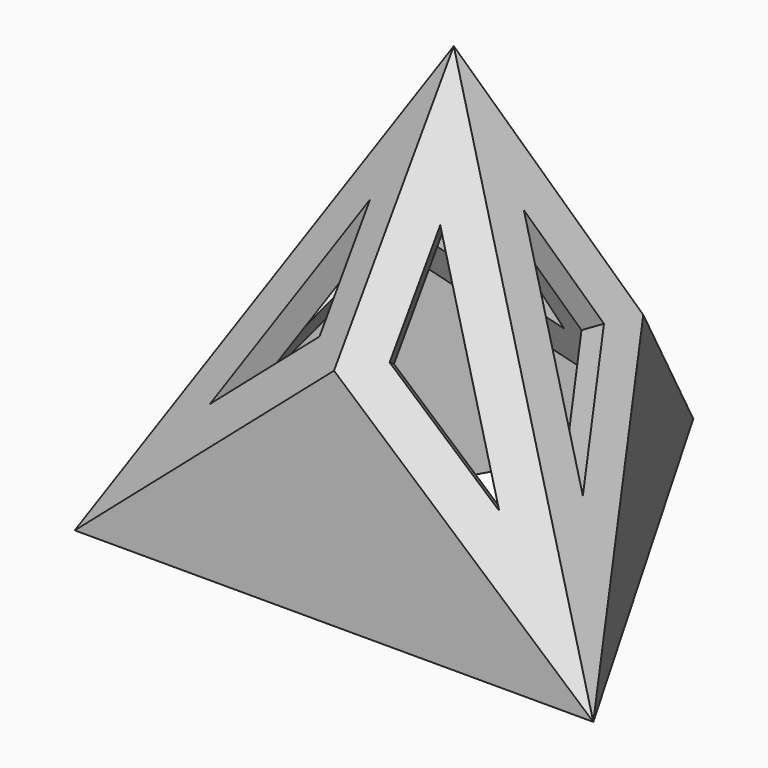
from build123d import *

# Parameters (mm, degrees)
F1_DEPTH  = 17.3482
F3_DEPTH  = 17.3215080757
F5_DEPTH  = 17.3215080757
F7_DEPTH  = 17.3215080757
F8_T      = -1
F10_DEPTH = 1
F12_DEPTH = 1
F14_DEPTH = 1
F16_DEPTH = 1
F18_DEPTH = 1
F20_DEPTH = 1


with BuildPart() as f1:
    # F0 (on Top) → F1 (new body)
    with BuildSketch(Plane.XY):
        Polygon((0, 11.5470053838), (-10, -5.7735026919), (10, -5.7735026919), align=None)
    extrude(amount=F1_DEPTH)

    # F2 (on face) → F3 (cut, through all)
    with BuildSketch(Plane(origin=(-5, 2.8867513459, 0), x_dir=(-0.5, -0.8660254038, 0), z_dir=(-0.8660254038, 0.5, 0))):
        Polygon((-10, 17.3482), (-10, 0), (0, 17.3482), align=None)
        Polygon((10, 17.3482), (0, 17.3482), (10, 0), align=None)
    extrude(amount=-F3_DEPTH, mode=Mode.SUBTRACT)

    # F4 (on face) → F5 (cut, through all)
    with BuildSketch(Plane.XZ.offset(5.7735026919)):
        Polygon((-10, 17.3482), (-10, 0), (0, 17.3482), align=None)
        Polygon((10, 17.3482), (0, 17.3482), (10, 0), align=None)
    extrude(amount=-F5_DEPTH, mode=Mode.SUBTRACT)

    # F6 (on face) → F7 (cut, through all)
    with BuildSketch(Plane(origin=(5, 2.8867513459, 0), x_dir=(-0.5, 0.8660254038, 0), z_dir=(0.8660254038, 0.5, 0))):
        Polygon((-10, 17.3482), (-10, 0), (0, 17.3482), align=None)
        Polygon((10, 17.3482), (0, 17.3482), (10, 0), align=None)
    extrude(amount=-F7_DEPTH, mode=Mode.SUBTRACT)

    # F8
    f8_openings = [f1.faces().sort_by_distance(p)[0] for p in [
        (0, 0, 0),
    ]]
    offset(amount=F8_T, openings=f8_openings)

    # F9 (on face) → F10 (cut, through all)
    with BuildSketch(Plane(origin=(7.5059859034, 0, 4.326665535), x_dir=(0, 1, 0), z_dir=(0.8663709312, 0, 0.4994010509))):
        Polygon((-2.4401965598, 1.1524346291), (1.2200982799, 5.3840480932), (0, 9.6156615572), align=None)
    extrude(amount=-F10_DEPTH, mode=Mode.SUBTRACT)

    # F11 (on face) → F12 (cut, through all)
    with BuildSketch(Plane(origin=(3.7529929517, -6.5003744728, 4.326665535), x_dir=(0.9013048055, 0.3606091099, -0.240022327), z_dir=(0.4331854656, -0.7502992355, 0.4994010509))):
        Polygon((-2.6639553332, 9.2392796887), (-2.6639553332, 4.835282377), (2.0254065744, 1.7833656477), align=None)
    extrude(amount=-F12_DEPTH, mode=Mode.SUBTRACT)

    # F13 (on face) → F14 (cut, through all)
    with BuildSketch(Plane(origin=(-3.7529929517, -6.5003744728, 4.326665535), x_dir=(0.9013048055, -0.3606091099, 0.240022327), z_dir=(-0.4331854656, -0.7502992355, 0.4994010509))):
        Polygon((2.6639553332, 9.2392796887), (-2.0254065744, 1.7833656477), (2.6639553332, 4.835282377), align=None)
    extrude(amount=-F14_DEPTH, mode=Mode.SUBTRACT)

    # F15 (on face) → F16 (cut, through all)
    with BuildSketch(Plane(origin=(-7.5059859034, 0, 4.326665535), x_dir=(0, -1, 0), z_dir=(-0.8663709312, 0, 0.4994010509))):
        Polygon((-1.2200982799, 5.3840480932), (2.4401965598, 1.1524346291), (0, 9.6156615572), align=None)
    extrude(amount=-F16_DEPTH, mode=Mode.SUBTRACT)

    # F17 (on face) → F18 (cut, through all)
    with BuildSketch(Plane(origin=(3.7529929517, 6.5003744728, 4.326665535), x_dir=(-0.9013048055, 0.3606091099, 0.240022327), z_dir=(0.4331854656, 0.7502992355, 0.4994010509))):
        Polygon((2.6639553332, 9.2392796887), (0.3192743794, 5.5113226682), (2.6639553332, 0.4312850652), align=None)
    extrude(amount=-F18_DEPTH, mode=Mode.SUBTRACT)

    # F19 (on face) → F20 (cut, through all)
    with BuildSketch(Plane(origin=(-3.7529929517, 6.5003744728, 4.326665535), x_dir=(-0.9013048055, -0.3606091099, -0.240022327), z_dir=(-0.4331854656, 0.7502992355, 0.4994010509))):
        Polygon((-2.6639553332, 9.2392796887), (-2.6639553332, 0.4312850652), (-0.3192743794, 5.5113226682), align=None)
    extrude(amount=-F20_DEPTH, mode=Mode.SUBTRACT)


solid = f1.part
